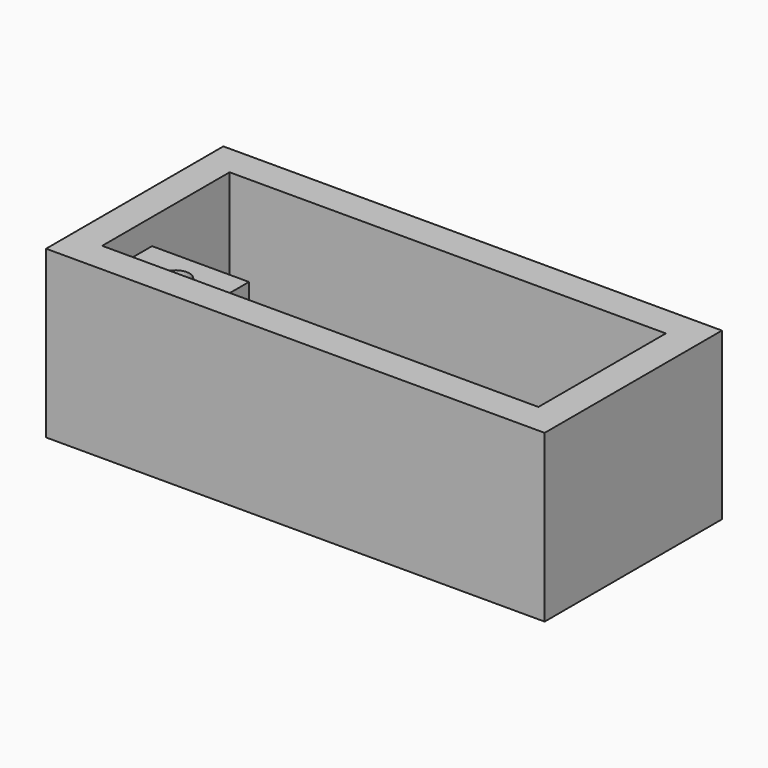
from build123d import *

# Parameters (mm, degrees)
SKETCH_W        = 36
SKETCH_H        = 16
PAD_DEPTH       = 12
SKETCH001_W     = 31.5
SKETCH001_H     = 11.5
POCKET_DEPTH    = 7.85
SKETCH002_W     = 7
SKETCH002_H     = 4.5
SKETCH002_R     = 1
PAD001_DEPTH    = 6
SKETCH003_R     = 3.25
POCKET001_DEPTH = 5


with BuildPart() as part:
    # Sketch → Pad (new body)
    with BuildSketch(Plane.XY):
        with Locations((18, 8)):
            Rectangle(SKETCH_W, SKETCH_H)
    extrude(amount=PAD_DEPTH)

    # Sketch001 (on Face6 of Pad) → Pocket (cut)
    with BuildSketch(Plane.XY.offset(12)):
        with Locations((18, 8)):
            Rectangle(SKETCH001_W, SKETCH001_H)
    extrude(amount=-POCKET_DEPTH, mode=Mode.SUBTRACT)

    # Sketch002 (on Face11 of Pocket) → Pad001 (join)
    with BuildSketch(Plane.XY.offset(4.15)):
        with Locations((5.75, 4.5)):
            Rectangle(SKETCH002_W, SKETCH002_H)
        with Locations((5.75, 4.5)):
            Circle(SKETCH002_R, mode=Mode.SUBTRACT)
    extrude(amount=PAD001_DEPTH)

    # Sketch003 (on Face11 of Pad001) → Pocket001 (cut)
    with BuildSketch(Plane.XY.offset(4.15)):
        with Locations((5.75, 10.25)):
            Circle(SKETCH003_R)
    extrude(amount=-POCKET001_DEPTH, mode=Mode.SUBTRACT)


solid = part.part
